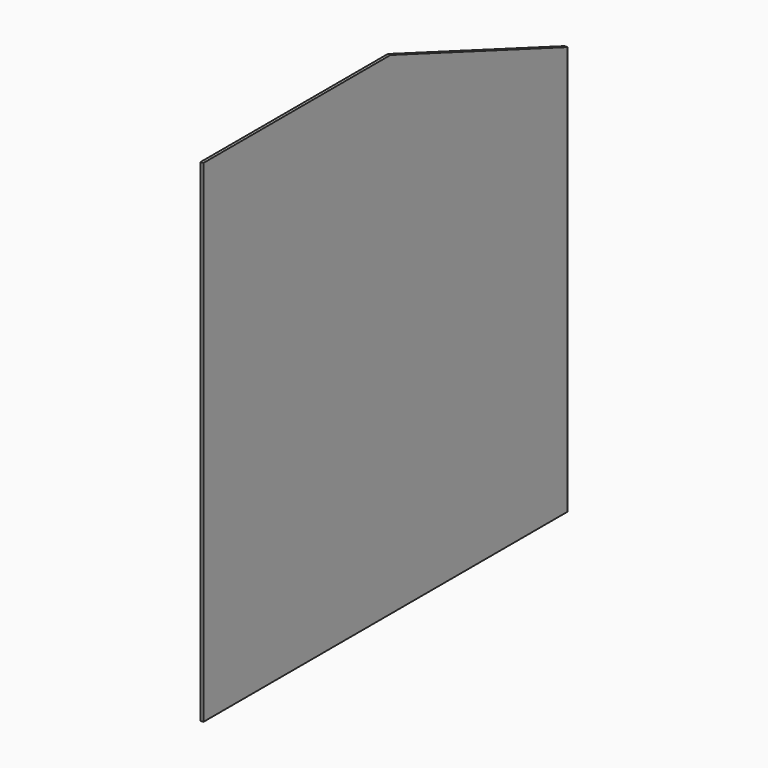
from build123d import *

# Parameters (mm, degrees)
F1_DEPTH = 12.5


with BuildPart() as f1:
    # F0 (on Right) → F1 (new body)
    with BuildSketch(Plane.YZ):
        Polygon((0, 2225), (0, 0), (2057.5, 0), (2057.5, 1850), (1057.5, 2225), align=None)
    extrude(amount=-F1_DEPTH)


solid = f1.part
